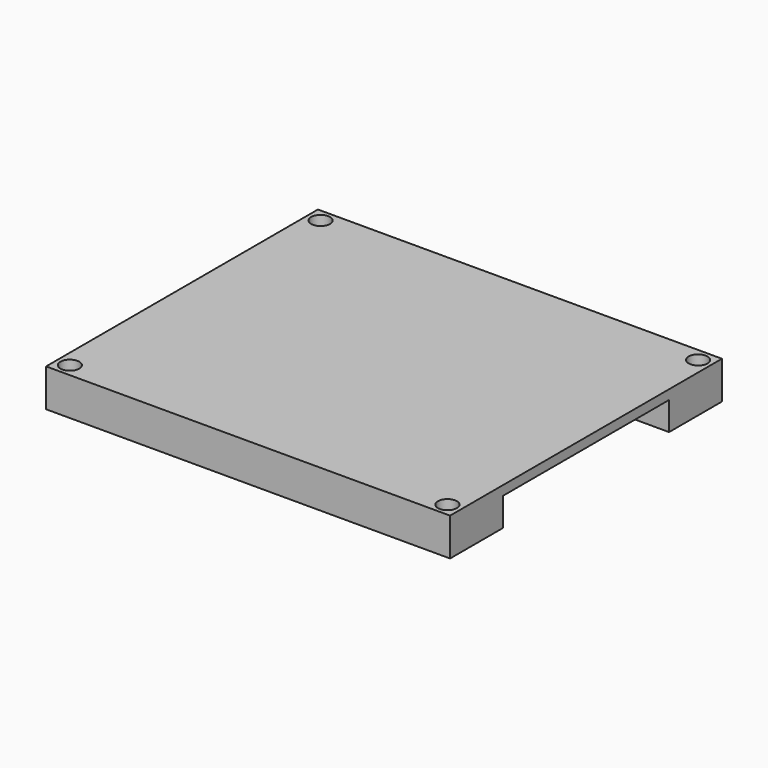
from build123d import *

# Parameters (mm, degrees)
SKETCH005_W                        = 107
SKETCH005_H                        = 90
PAD003_DEPTH                       = 10
SKETCH008_R                        = 2.5
POCKET004_DEPTH                    = 5
SKETCH009_R                        = 1.5
POCKET005_DEPTH                    = 285.350782
SKETCH008_LINEARPATTERN_2_R        = 2.5
POCKET004_LINEARPATTERN_2_DEPTH    = 5
LINEARPATTERN001_COUNT             = 2
LINEARPATTERN001_PITCH             = 83
SKETCH009_LINEARPATTERN002_2_R     = 1.5
POCKET005_LINEARPATTERN002_2_DEPTH = 285.350782
LINEARPATTERN003_COUNT             = 2
LINEARPATTERN003_PITCH             = 83
SKETCH012_W                        = 110
SKETCH012_H                        = 55
POCKET008_DEPTH                    = 7.5


with BuildPart() as part:
    # Sketch005 → Pad003 (new body)
    with BuildSketch(Plane.XY):
        with Locations((53.5, 45)):
            Rectangle(SKETCH005_W, SKETCH005_H)
    extrude(amount=PAD003_DEPTH)

    # Sketch008 (on Face6 of Pad003) → Pocket004 (cut)
    with BuildSketch(Plane.XY.offset(10)):
        with Locations((3.5, 86.5)):
            Circle(SKETCH008_R)
    pocket004 = extrude(amount=-POCKET004_DEPTH, mode=Mode.SUBTRACT)

    # Sketch009 (on Face8 of Pocket004) → Pocket005 (cut, through all)
    with BuildSketch(Plane.XY.offset(5)):
        with Locations((3.5, 86.5)):
            Circle(SKETCH009_R)
    pocket005 = extrude(amount=-POCKET005_DEPTH, mode=Mode.SUBTRACT)

    # Sketch008 LinearPattern 2 → Pocket004 LinearPattern 2 (cut)
    with BuildSketch(Plane(origin=(100, 0, 10), x_dir=(1, 0, 0), z_dir=(0, 0, 1))):
        with Locations((3.5, 86.5)):
            Circle(SKETCH008_LINEARPATTERN_2_R)
    pocket004_linearpattern_2 = extrude(amount=-POCKET004_LINEARPATTERN_2_DEPTH, mode=Mode.SUBTRACT)

    # LinearPattern001: Pocket004, Pocket004 LinearPattern 2 ×2
    with Locations(*[(0, -i * LINEARPATTERN001_PITCH, 0) for i in range(1, LINEARPATTERN001_COUNT)]):
        add(pocket004, mode=Mode.SUBTRACT)
        add(pocket004_linearpattern_2, mode=Mode.SUBTRACT)

    # Sketch009 LinearPattern002 2 → Pocket005 LinearPattern002 2 (cut, through all)
    with BuildSketch(Plane(origin=(100, 0, 5), x_dir=(1, 0, 0), z_dir=(0, 0, 1))):
        with Locations((3.5, 86.5)):
            Circle(SKETCH009_LINEARPATTERN002_2_R)
    pocket005_linearpattern002_2 = extrude(amount=-POCKET005_LINEARPATTERN002_2_DEPTH, mode=Mode.SUBTRACT)

    # LinearPattern003: Pocket005, Pocket005 LinearPattern002 2 ×2
    with Locations(*[(0, -i * LINEARPATTERN003_PITCH, 0) for i in range(1, LINEARPATTERN003_COUNT)]):
        add(pocket005, mode=Mode.SUBTRACT)
        add(pocket005_linearpattern002_2, mode=Mode.SUBTRACT)

    # Sketch012 (on Face4 of MultiTransform001) → Pocket008 (cut)
    with BuildSketch(Plane(origin=(0, 0, 0), x_dir=(1, 0, 0), z_dir=(0, 0, -1))):
        with Locations((53.5, -45)):
            Rectangle(SKETCH012_W, SKETCH012_H)
    extrude(amount=-POCKET008_DEPTH, mode=Mode.SUBTRACT)


with BuildPart() as part_1:
    # Body001 placement: moved
    add(part.part.moved(Location((0, 0, 30))))


solid = part_1.part
